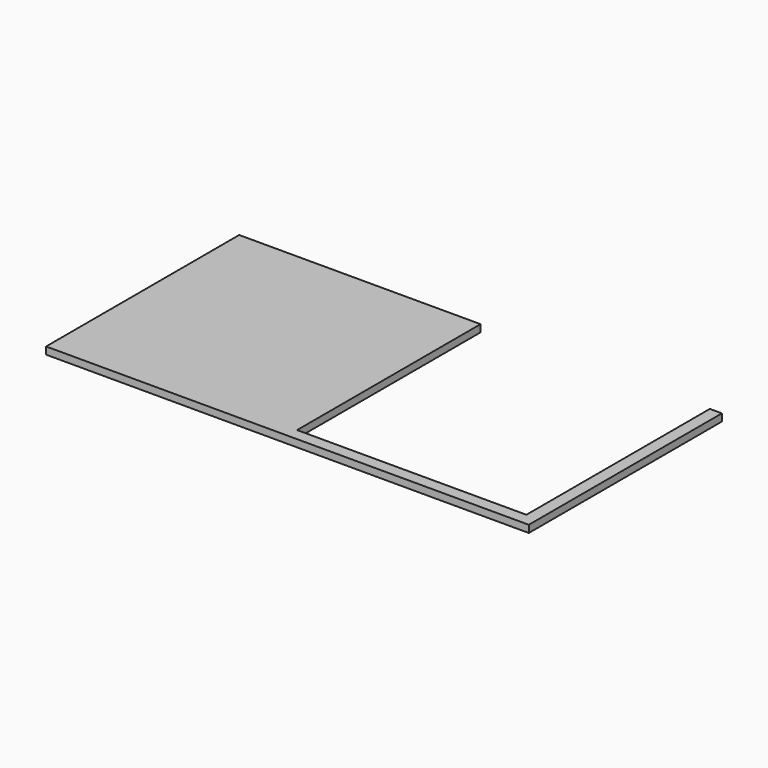
from build123d import *

# Parameters (mm, degrees)
F0_W     = 0.5
F0_H     = 9.5
F1_DEPTH = 0.3


with BuildPart() as f1:
    # F0 (on Top) → F1 (new body)
    with BuildSketch(Plane.XY):
        Polygon((5, 5), (-5, 5), (-5, -5), (5, -5), (5, -4.5), align=None)
        Polygon((14.5, -4.5), (5, -4.5), (5, -5), (15, -5), (15, -4.5), align=None)
        with Locations((14.75, 0.25)):
            Rectangle(F0_W, F0_H)
    extrude(amount=F1_DEPTH)


solid = f1.part
